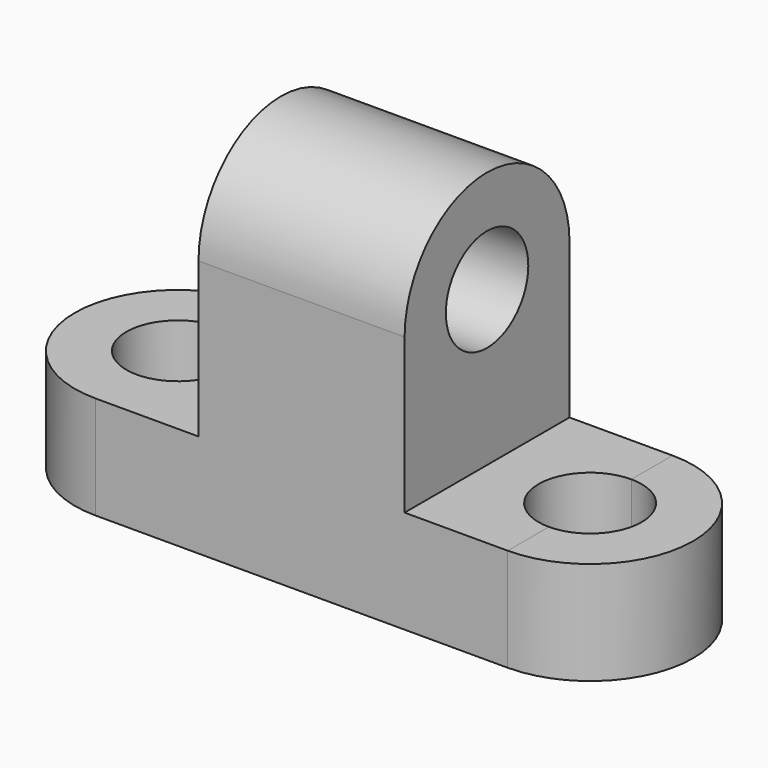
from build123d import *

# Parameters (mm, degrees)
F1_DEPTH  = 25.4
F3_DEPTH  = 12.7
F5_DEPTH  = 12.7
F7_DEPTH  = 25.4
F8_R      = 6.35
F9_DEPTH  = 25.4
F11_DEPTH = 25.4
F12_DEPTH = 25.4
F13_R     = 6.35
F14_DEPTH = 25.4


with BuildPart() as f1:
    # F0 (on Front) → F1 (new body)
    with BuildSketch(Plane.XZ):
        Polygon((-77.5504523965, 12.7), (-77.5504523965, 0), (-26.7504523965, 0), (-26.7504523965, 12.7), (-39.4504523965, 12.7), (-39.4504523965, 31.75), (-64.8504523965, 31.75), (-64.8504523965, 12.7), align=None)
    extrude(amount=F1_DEPTH)

    # F4 (on face) → F5 (join)
    with BuildSketch(Plane.XY.offset(12.7)):
        with BuildLine():
            Line((-77.5504523965, -25.4), (-77.5504523965, 0))
            ThreePointArc((-77.5504523965, 0), (-90.2504523965, -12.7), (-77.5504523965, -25.4))
        make_face()
    extrude(amount=-F5_DEPTH)

    # F6 (on face) → F7 (join)
    with BuildSketch(Plane.YZ.offset(-39.4504523965)):
        with BuildLine():
            Line((-25.4, 31.75), (0, 31.75))
            ThreePointArc((0, 31.75), (-12.7, 44.45), (-25.4, 31.75))
        make_face()
    extrude(amount=-F7_DEPTH)

    # F8 (on face) → F9 (cut)
    with BuildSketch(Plane.XY.offset(12.7)):
        with Locations((-77.5504523965, -12.7)):
            Circle(F8_R)
    extrude(amount=-F9_DEPTH, mode=Mode.SUBTRACT)


with BuildPart() as f3:
    # F2 (on face) → F3 (new body)
    with BuildSketch(Plane.XY.offset(12.7)):
        with BuildLine():
            Line((-26.7504523965, 0), (-26.7504523965, -25.4))
            ThreePointArc((-26.7504523965, -25.4), (-14.0504523965, -12.7), (-26.7504523965, 0))
        make_face()
    extrude(amount=-F3_DEPTH)


with BuildPart() as f11_tool:
    # F10 (on face) → F11 (new body)
    with BuildSketch(Plane.XY.offset(12.7)):
        with BuildLine():
            Line((-26.7504523965, -19.05), (-26.7504523965, -6.35))
            ThreePointArc((-26.7504523965, -6.35), (-33.1004523965, -12.7), (-26.7504523965, -19.05))
        make_face()
        with BuildLine():
            ThreePointArc((-26.7504523965, -19.05), (-22.2603243359, -17.1901280605), (-20.4004523965, -12.7))
            ThreePointArc((-20.4004523965, -12.7), (-22.2603243359, -8.2098719395), (-26.7504523965, -6.35))
            Line((-26.7504523965, -6.35), (-26.7504523965, -19.05))
        make_face()
    extrude(amount=-F11_DEPTH)


with BuildPart() as f1_1:
    add(f1.part)

    # F11: cut by f11_tool
    add(f11_tool.part, mode=Mode.SUBTRACT)

    # F10 (on face) → F12 (cut)
    with BuildSketch(Plane.XY.offset(12.7)):
        with BuildLine():
            ThreePointArc((-26.7504523965, -19.05), (-22.2603243359, -17.1901280605), (-20.4004523965, -12.7))
            ThreePointArc((-20.4004523965, -12.7), (-22.2603243359, -8.2098719395), (-26.7504523965, -6.35))
            Line((-26.7504523965, -6.35), (-26.7504523965, -19.05))
        make_face()
    extrude(amount=-F12_DEPTH, mode=Mode.SUBTRACT)

    # F13 (on face) → F14 (cut)
    with BuildSketch(Plane.YZ.offset(-39.4504523965)):
        with Locations((-12.7, 31.75)):
            Circle(F13_R)
    extrude(amount=-F14_DEPTH, mode=Mode.SUBTRACT)


with BuildPart() as f3_1:
    add(f3.part)

    # F11: cut by f11_tool
    add(f11_tool.part, mode=Mode.SUBTRACT)


solid = Compound([f1_1.part, f3_1.part])
